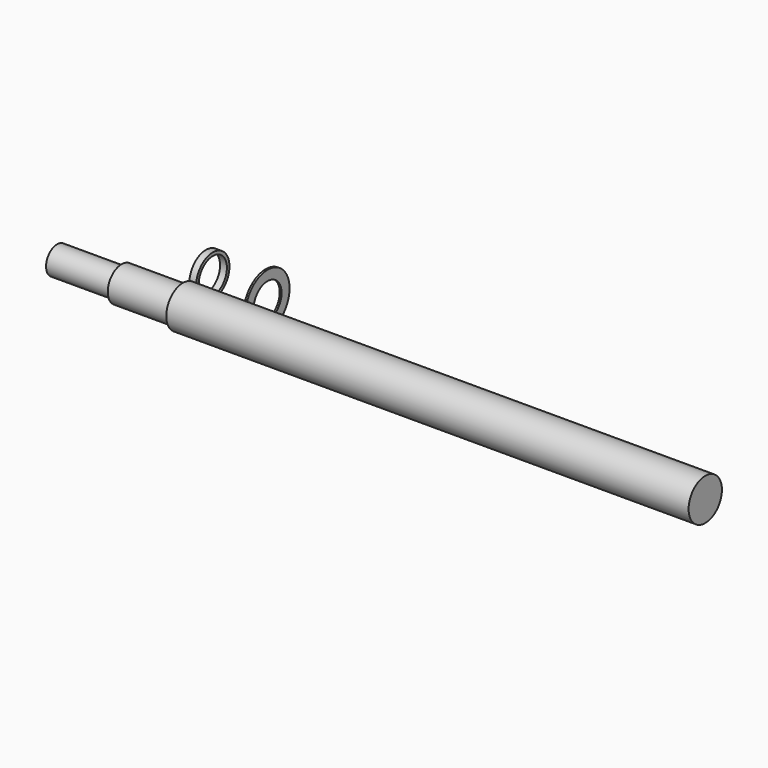
from build123d import *

# Parameters (mm, degrees)
F2_W = 1.96
F2_H = 0.925
F4_W = 0.54
F4_H = 2.855


with BuildPart() as f1:
    # F0 (on Top) → F1 (revolve)
    with BuildSketch(Plane.XY):
        Polygon((-28.652601, 3.98), (-28.652601, 0), (157.467399, 0), (157.467399, 5.98), (7.467399, 5.98), (7.467399, 4.98), (-10.132601, 4.98), (-10.132601, 3.98), align=None)
    revolve(axis=Axis((64.407399, 0, 0), (-1, 0, 0)))


with BuildPart() as f3:
    # F2 (on Top) → F3 (revolve)
    with BuildSketch(Plane.XY):
        with Locations((2.471874, 21.266823)):
            Rectangle(F2_W, F2_H)
    revolve(axis=Axis((3.085692, 15.749323, 0), (1, 0, 0)))


with BuildPart() as f5:
    # F4 (on Top) → F5 (revolve)
    with BuildSketch(Plane.XY):
        with Locations((20.359954, 20.394169)):
            Rectangle(F4_W, F4_H)
    revolve(axis=Axis((24.295919, 13.926669, 0), (1, 0, 0)))


solid = Compound([f1.part, f3.part, f5.part])
